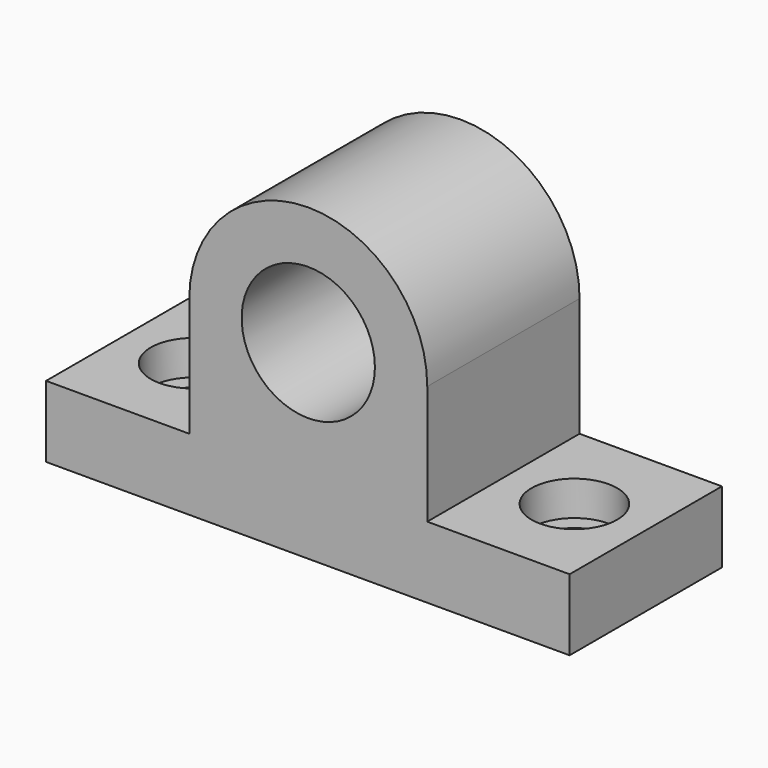
from build123d import *

# Parameters (mm, degrees)
F0_W           = 110
F0_H           = 40
F1_DEPTH       = 15
F3_D           = 11
F3_CBORE_D     = 18
F3_CBORE_DEPTH = 7.3
F4_D           = 11
F4_CBORE_D     = 18
F4_CBORE_DEPTH = 7.3
F5_R           = 14
F6_DEPTH       = 40


with BuildPart() as f1:
    # F0 (on Top) → F1 (new body)
    with BuildSketch(Plane.XY):
        with Locations((4.1418567452, 20)):
            Rectangle(F0_W, F0_H)
    extrude(amount=F1_DEPTH)

    # F3 (through all)
    with Locations(Plane.XY.offset(15)):
        with Locations((-35.8581432548, 20)):
            CounterBoreHole(F3_D / 2, F3_CBORE_D / 2, F3_CBORE_DEPTH)

    # F4 (through all)
    with Locations(Plane.XY.offset(15)):
        with Locations((44.1418567452, 20)):
            CounterBoreHole(F4_D / 2, F4_CBORE_D / 2, F4_CBORE_DEPTH)

    # F5 (on Front) → F6 (join)
    with BuildSketch(Plane.XZ):
        with BuildLine():
            Line((-20.7692322135, 40), (-20.7692322135, 15.2884628624))
            Line((-20.7692322135, 15.2884628624), (-20.7692322135, 0))
            Line((-20.7692322135, 0), (29.2307677865, 0))
            Line((29.2307677865, 0), (29.2307677865, 15.2884628624))
            Line((29.2307677865, 15.2884628624), (29.2307677865, 40))
            ThreePointArc((29.2307677865, 40), (4.2307677865, 65), (-20.7692322135, 40))
        make_face()
        with Locations((4.2307677865, 40)):
            Circle(F5_R, mode=Mode.SUBTRACT)
    extrude(amount=-F6_DEPTH)


solid = f1.part
